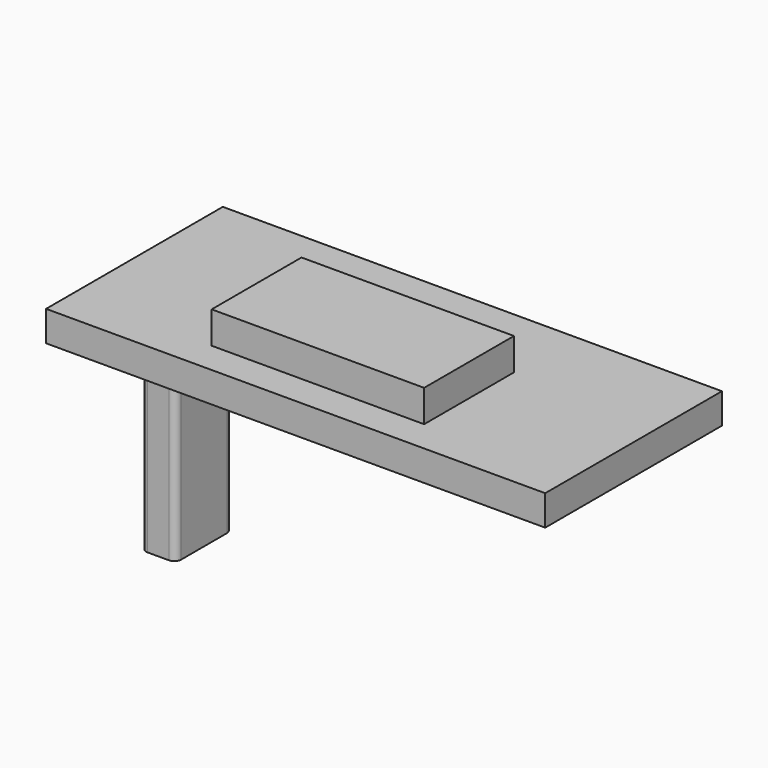
from build123d import *

# Parameters (mm, degrees)
F0_W     = 37.592
F0_H     = 16.637
F1_DEPTH = 2.286
F2_W     = 16.002
F2_H     = 8.4582
F3_DEPTH = 2.413
F4_W     = 2.6162
F4_H     = 5.334
F5_DEPTH = 17.1196
F6_R     = 0.508


with BuildPart() as f1:
    # F0 (on Top) → F1 (new body)
    with BuildSketch(Plane.XY):
        with Locations((18.796, 8.3185)):
            Rectangle(F0_W, F0_H)
    extrude(amount=F1_DEPTH)

    # F2 (on face) → F3 (join)
    with BuildSketch(Plane.XY.offset(2.286)):
        with Locations((18.542, 6.6421)):
            Rectangle(F2_W, F2_H)
    extrude(amount=F3_DEPTH)

    # F4 (on face) → F5 (join)
    with BuildSketch(Plane(origin=(0, 0, 0), x_dir=(1, 0, 0), z_dir=(0, 0, -1))):
        with Locations((1.5621, -11.2776)):
            Rectangle(F4_W, F4_H)
    extrude(amount=F5_DEPTH)

    # F6
    f6_edges = [f1.edges().sort_by_distance(p)[0] for p in [
        (2.8702, 13.9446, -8.5598),
        (0.254, 13.9446, -8.5598),
        (2.8702, 8.6106, -8.5598),
        (0.254, 8.6106, -8.5598),
    ]]
    fillet(f6_edges, radius=F6_R)


solid = f1.part
